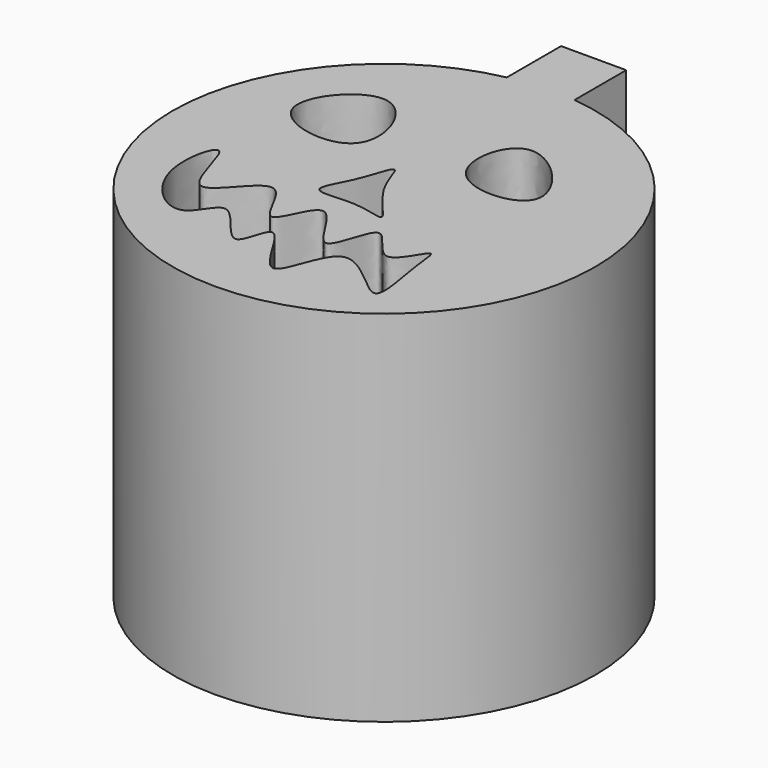
from build123d import *

# Parameters (mm, degrees)
F0_R      = 29.8799862716
F1_DEPTH  = 50.8
F3_DEPTH  = 50.8
F5_DEPTH  = 50.8
F7_DEPTH  = 50.8
F9_DEPTH  = 50.8
F10_W     = 9.2097856104
F10_H     = 10.0732035935
F11_DEPTH = 50.8


with BuildPart() as f1:
    # F0 (on Top) → F1 (new body)
    with BuildSketch(Plane.XY):
        with Locations((-37.7021767199, 22.4481672049)):
            Circle(F0_R)
    extrude(amount=F1_DEPTH)

    # F2 (on face) → F3 (cut)
    with BuildSketch(Plane.XY.offset(50.8)):
        with BuildLine():
            add(Edge.make_bspline(
                [(-32.8098572791, 30.7952146977), (-35.2259711759, 33.535308463), (-32.6833420826, 45.6696395994), (-16.8926569371, 28.6070024017), (-30.3021497926, 27.9512454388), (-32.8098572791, 30.7952146977)],
                knots=[0, 0, 0, 0, 0.3146705089, 0.6734004999, 1, 1, 1, 1], degree=3))
        make_face()
    extrude(amount=-F3_DEPTH, mode=Mode.SUBTRACT)

    # F4 (on face) → F5 (cut)
    with BuildSketch(Plane.XY.offset(50.8)):
        with BuildLine():
            add(Edge.make_bspline(
                [(-57.5611516833, 31.0830231756), (-58.7657929474, 34.4339416549), (-49.5724739059, 45.1730663109), (-42.1211921595, 25.0191050736), (-56.3438671732, 27.6969353159), (-57.5611516833, 31.0830231756)],
                knots=[0, 0, 0, 0, 0.3314893913, 0.6650314801, 1, 1, 1, 1], degree=3))
        make_face()
    extrude(amount=-F5_DEPTH, mode=Mode.SUBTRACT)

    # F6 (on face) → F7 (cut)
    with BuildSketch(Plane.XY.offset(50.8)):
        with BuildLine():
            add(Edge.make_bspline(
                [(-39.7171936929, 26.7659369856), (-40.0665949811, 26.7213342541), (-40.9671826168, 23.6952742904), (-42.0508708344, 21.0685713388), (-44.539010086, 16.6592938834), (-37.8388958096, 18.2947679202), (-31.3896992895, 15.591583373), (-38.5273569091, 21.9218764152), (-39.2641870666, 26.8237654299), (-39.7171936929, 26.7659369856)],
                knots=[0, 0, 0, 0, 0.1161290462, 0.2495486259, 0.3691136887, 0.5305216334, 0.6696786568, 0.8494360805, 1, 1, 1, 1], degree=3))
        make_face()
    extrude(amount=-F7_DEPTH, mode=Mode.SUBTRACT)

    # F8 (on face) → F9 (cut)
    with BuildSketch(Plane.XY.offset(50.8)):
        with BuildLine():
            add(Edge.make_bspline(
                [(-58.712374419, 10.9366187826), (-57.6423825085, 6.8568957173), (-51.2685237146, 1.399034843), (-48.8035784686, 11.4409728422), (-42.1675639989, -1.2876486812), (-41.4819653211, 11.3807683158), (-34.4161202522, -6.4188804834), (-32.7249885495, 12.7609678896), (-20.5669681621, -2.4880772532), (-23.6290109283, 9.593420348), (-23.6575218407, 15.9085635302), (-27.3158352396, 6.5615987367), (-32.3129463278, 18.2785895738), (-33.9157411332, 2.885293951), (-39.9863010812, 19.2745230898), (-43.1804727354, 4.6310417676), (-46.9882161265, 20.2571421246), (-54.8268980291, 4.4381528373), (-57.3010468401, 23.4789496863), (-59.6559323475, 14.5342675188), (-58.712374419, 10.9366187826)],
                knots=[0, 0, 0, 0, 0.0653815281, 0.1116132644, 0.1694704049, 0.2134998027, 0.2760856481, 0.3370444978, 0.4021154204, 0.4605642485, 0.5024179255, 0.5486496516, 0.5997004734, 0.6527954994, 0.7122333771, 0.7634774458, 0.8198545929, 0.8796181581, 0.9423441816, 1, 1, 1, 1], degree=3))
        make_face()
    extrude(amount=-F9_DEPTH, mode=Mode.SUBTRACT)

    # F10 (on Top) → F11 (join)
    with BuildSketch(Plane.XY):
        with Locations((-39.1415823251, 56.2660265714)):
            Rectangle(F10_W, F10_H)
    extrude(amount=F11_DEPTH)


solid = f1.part
